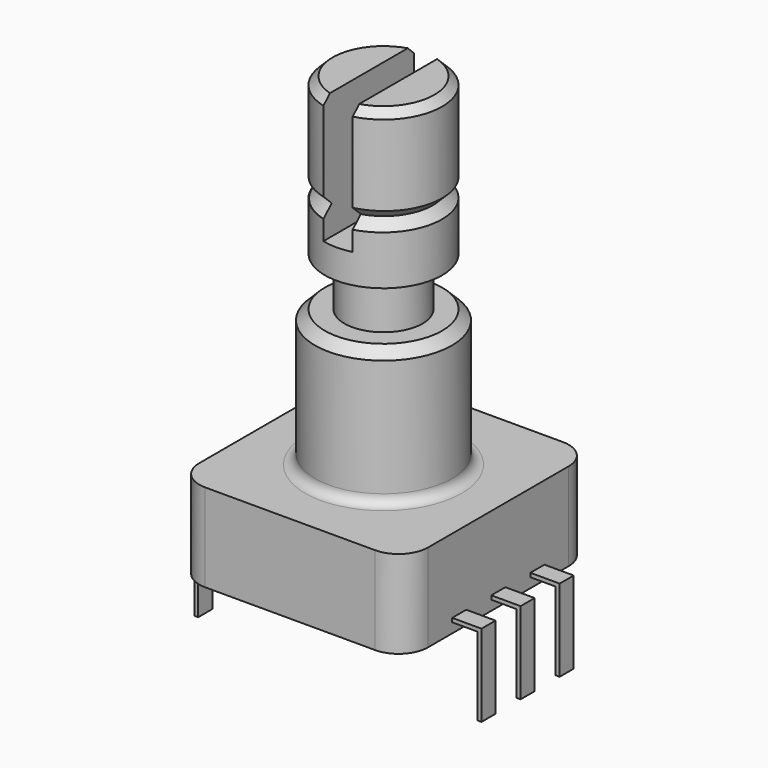
from build123d import *

# Parameters (mm, degrees)
SKETCH_W             = 11.7
SKETCH_H             = 12
PAD_DEPTH            = 4.5
SKETCH001_R          = 3.5
PAD001_DEPTH         = 7
SKETCH002_R          = 2
PAD002_DEPTH         = 2.5
SKETCH004_R          = 3
PAD003_DEPTH         = 8
SKETCH005_W          = 1
SKETCH005_H          = 0.202996
POCKET_DEPTH         = 6.5
CHAMFER_SIZE         = 0.4
CHAMFER001_SIZE      = 0.5
FILLET_R             = 0.5
FILLET001_R          = 1.5
PAD004_DEPTH         = 0.45
PAD004_DEPTH_BACK    = 0.45
LINEARPATTERN_COUNT  = 3
LINEARPATTERN_PITCH  = 2.5
POCKET001_DEPTH      = 1
POCKET001_DEPTH_BACK = 1


with BuildPart() as part:
    # Sketch → Pad (new body)
    with BuildSketch(Plane.XY):
        with Locations((5.85, 6)):
            Rectangle(SKETCH_W, SKETCH_H)
    extrude(amount=PAD_DEPTH)

    # Sketch001 (on Face6 of Pad) → Pad001 (join)
    with BuildSketch(Plane.XY.offset(4.5)):
        with Locations((5.823836, 6)):
            Circle(SKETCH001_R)
    extrude(amount=PAD001_DEPTH)

    # Sketch002 (on Face8 of Pad001) → Pad002 (join)
    with BuildSketch(Plane.XY.offset(11.5)):
        with Locations((5.823836, 6)):
            Circle(SKETCH002_R)
    extrude(amount=PAD002_DEPTH)

    # Sketch004 (on Face10 of Pad002) → Pad003 (join)
    with BuildSketch(Plane.XY.offset(14)):
        with Locations((5.823836, 6)):
            Circle(SKETCH004_R)
    extrude(amount=PAD003_DEPTH)

    # Sketch005 (on DatumPlane) → Groove (revolve, cut)
    with BuildSketch(Plane(origin=(5.85, 6, 2.25), x_dir=(0, 0, -1), z_dir=(1, 0, 0))):
        Polygon((-15.25, 3), (-14.75, 2.5), (-14.25, 3), align=None)
        with Locations((-14.75, 3.101498)):
            Rectangle(SKETCH005_W, SKETCH005_H)
    revolve(axis=Axis((5.85, 6, 2.25), (0, 0, -1)), mode=Mode.SUBTRACT)

    # Sketch006 (on Face17 of Groove) → Pocket (cut)
    with BuildSketch(Plane.XY.offset(22)):
        with BuildLine():
            Line((5.073836, 8.904738), (5.073836, 3.095262))
            ThreePointArc((5.073836, 3.095262), (5.823836, 3), (6.573836, 3.095262))
            Line((6.573836, 3.095262), (6.573836, 8.904738))
            ThreePointArc((6.573836, 8.904738), (5.823836, 9), (5.073836, 8.904738))
        make_face()
    extrude(amount=-POCKET_DEPTH, mode=Mode.SUBTRACT)

    # Chamfer
    chamfer_edges = [part.edges().sort_by_distance(p)[0] for p in [
        (8.195544, 7.837117, 22),
        (8.195544, 4.162883, 22),
        (2.823836, 6, 22),
    ]]
    chamfer(chamfer_edges, length=CHAMFER_SIZE)

    # Chamfer001
    chamfer001_edges = [part.edges().sort_by_distance(p)[0] for p in [
        (2.323836, 6, 11.5),
    ]]
    chamfer(chamfer001_edges, length=CHAMFER001_SIZE)

    # Fillet
    fillet_edges = [part.edges().sort_by_distance(p)[0] for p in [
        (2.323836, 6, 4.5),
    ]]
    fillet(fillet_edges, radius=FILLET_R)

    # Fillet001
    fillet001_edges = [part.edges().sort_by_distance(p)[0] for p in [
        (11.7, 0, 2.25),
        (11.7, 12, 2.25),
        (0, 12, 2.25),
        (0, 0, 2.25),
    ]]
    fillet(fillet001_edges, radius=FILLET001_R)

    # Sketch007 (on DatumPlane) → Pad004 (join, two sides)
    with BuildSketch(Plane(origin=(5.85, 3.5, 2.25), x_dir=(1, 0, 0), z_dir=(0, -1, 0))) as pad004_sk:
        Polygon((5.85, -1.55), (5.85, -1.75), (7.15, -1.75), (7.15, -5.75), (7.35, -5.75), (7.35, -1.75), (7.35, -1.55), align=None)
        Polygon((-5.85, -1.55), (-5.85, -1.75), (-7.15, -1.75), (-7.15, -5.75), (-7.35, -5.75), (-7.35, -1.75), (-7.35, -1.55), align=None)
    pad004 = extrude(amount=PAD004_DEPTH) + extrude(pad004_sk.sketch, amount=-PAD004_DEPTH_BACK)

    # LinearPattern: Pad004 ×3
    with Locations(*[(0, i * LINEARPATTERN_PITCH, 0) for i in range(1, LINEARPATTERN_COUNT)]):
        add(pad004)

    # Sketch008 (on DatumPlane) → Pocket001 (cut, two sides)
    with BuildSketch(Plane(origin=(5.85, 6, 2.25), x_dir=(0, 0, -1), z_dir=(0, -1, 0))) as pocket001_sk:
        Polygon((1.55, -7.35), (1.55, -5.85), (1.75, -5.85), (1.75, -7.15), (5.75, -7.15), (5.75, -7.35), align=None)
    extrude(amount=-POCKET001_DEPTH, mode=Mode.SUBTRACT)
    extrude(pocket001_sk.sketch, amount=POCKET001_DEPTH_BACK, mode=Mode.SUBTRACT)


solid = part.part
